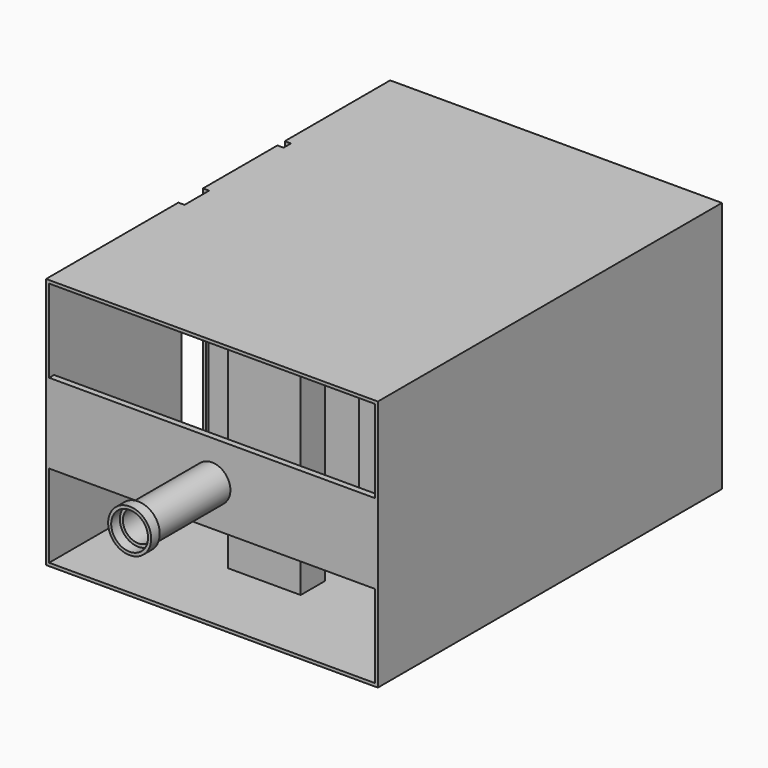
from build123d import *

# Parameters (mm, degrees)
F0_W      = 108
F0_H      = 82
F1_DEPTH  = 140
F2_W      = 106
F2_H      = 80
F3_DEPTH  = 140
F4_W      = 2
F4_H      = 80
F5_DEPTH  = 60
F6_W      = 7
F6_H      = 80
F7_DEPTH  = 5
F8_W      = 53
F8_H      = 5.2541689575
F9_DEPTH  = 5
F10_W     = 53
F10_H     = 6.8548367918
F11_DEPTH = 25
F12_W     = 10
F12_H     = 82
F13_DEPTH = 2
F14_W     = 3
F14_H     = 80
F15_DEPTH = 75
F16_W     = 5
F16_H     = 80
F17_DEPTH = 3
F18_W     = 3
F18_H     = 82
F19_DEPTH = 2
F20_W     = 53
F20_H     = 5.699147433
F20_H_2   = 4.9193547666
F21_DEPTH = 25
F22_W     = 3
F22_H     = 80
F23_DEPTH = 75
F24_W     = 23.5925841301
F24_H     = 10
F25_DEPTH = 80
F26_W     = 106
F26_H     = 26
F27_DEPTH = 2
F28_R     = 6
F29_DEPTH = 30
F30_R     = 5
F31_DEPTH = 40
F32_R     = 7
F33_DEPTH = 3.5
F34_R     = 6
F35_DEPTH = 3.5


with BuildPart() as f1:
    # F0 (on Front) → F1 (new body)
    with BuildSketch(Plane.XZ):
        Rectangle(F0_W, F0_H)
    extrude(amount=F1_DEPTH)

    # F2 (on face) → F3 (cut, through all)
    with BuildSketch(Plane.XZ.offset(140)):
        Rectangle(F2_W, F2_H)
    extrude(amount=-F3_DEPTH, mode=Mode.SUBTRACT)

    # F4 (on face) → F5 (join)
    with BuildSketch(Plane.YZ.offset(-53)):
        with Locations((-74.2016156912, 0)):
            Rectangle(F4_W, F4_H)
    extrude(amount=F5_DEPTH)

    # F6 (on face) → F7 (join)
    with BuildSketch(Plane.XZ.offset(75.2016156912)):
        with Locations((3.5, 0)):
            Rectangle(F6_W, F6_H)
    extrude(amount=F7_DEPTH)

    # F8 (on face) → F9 (cut)
    with BuildSketch(Plane.XZ.offset(75.2016156912)):
        with Locations((-26.5, 37.3729155213)):
            Rectangle(F8_W, F8_H)
    extrude(amount=-F9_DEPTH, mode=Mode.SUBTRACT)

    # F10 (on face) → F11 (cut)
    with BuildSketch(Plane.XZ.offset(75.2016156912)):
        with Locations((-26.5, -36.5725816041)):
            Rectangle(F10_W, F10_H)
    extrude(amount=-F11_DEPTH, mode=Mode.SUBTRACT)

    # F12 (on face) → F13 (cut)
    with BuildSketch(Plane(origin=(-54, 0, 0), x_dir=(0, -1, 0), z_dir=(-1, 0, 0))):
        with Locations((81.1693567038, 0)):
            Rectangle(F12_W, F12_H)
    extrude(amount=-F13_DEPTH, mode=Mode.SUBTRACT)

    # F14 (on face) → F15 (join)
    with BuildSketch(Plane.YZ.offset(-53)):
        with Locations((-36.5846783519, 0)):
            Rectangle(F14_W, F14_H)
    extrude(amount=F15_DEPTH)

    # F16 (on face) → F17 (join)
    with BuildSketch(Plane.XZ.offset(38.0846783519)):
        with Locations((19.5, 0)):
            Rectangle(F16_W, F16_H)
    extrude(amount=F17_DEPTH)

    # F18 (on face) → F19 (cut)
    with BuildSketch(Plane(origin=(-54, 0, 0), x_dir=(0, -1, 0), z_dir=(-1, 0, 0))):
        with Locations((44.3771749139, 0)):
            Rectangle(F18_W, F18_H)
    extrude(amount=-F19_DEPTH, mode=Mode.SUBTRACT)

    # F20 (on face) → F21 (cut)
    with BuildSketch(Plane.XZ.offset(38.0846783519)):
        with Locations((-26.5, -37.1504262835)):
            Rectangle(F20_W, F20_H)
        with Locations((-26.5, 37.5403226167)):
            Rectangle(F20_W, F20_H_2)
    extrude(amount=-F21_DEPTH, mode=Mode.SUBTRACT)

    # F22 (on face) → F23 (join)
    with BuildSketch(Plane(origin=(53, 0, 0), x_dir=(0, -1, 0), z_dir=(-1, 0, 0))):
        with Locations((11.9209491983, 0)):
            Rectangle(F22_W, F22_H)
    extrude(amount=F23_DEPTH)

    # F24 (on face) → F25 (join, through all)
    with BuildSketch(Plane(origin=(0, 0, 40), x_dir=(1, 0, 0), z_dir=(0, 0, -1))):
        with Locations((-3.7651341408, 108.9572943747)):
            Rectangle(F24_W, F24_H)
    extrude(amount=F25_DEPTH)

    # F26 (on face) → F27 (join)
    with BuildSketch(Plane.XZ.offset(140)):
        Rectangle(F26_W, F26_H)
    extrude(amount=-F27_DEPTH)

    # F28 (on face) → F29 (join)
    with BuildSketch(Plane.XZ.offset(140)):
        Circle(F28_R)
    extrude(amount=F29_DEPTH)

    # F30 (on face) → F31 (cut)
    with BuildSketch(Plane.XZ.offset(170)):
        Circle(F30_R)
    extrude(amount=-F31_DEPTH, mode=Mode.SUBTRACT)

    # F32 (on face) → F33 (join)
    with BuildSketch(Plane.XZ.offset(170)):
        Circle(F32_R)
    extrude(amount=F33_DEPTH)

    # F34 (on face) → F35 (cut)
    with BuildSketch(Plane.XZ.offset(173.5)):
        Circle(F34_R)
    extrude(amount=-F35_DEPTH, mode=Mode.SUBTRACT)


solid = f1.part
